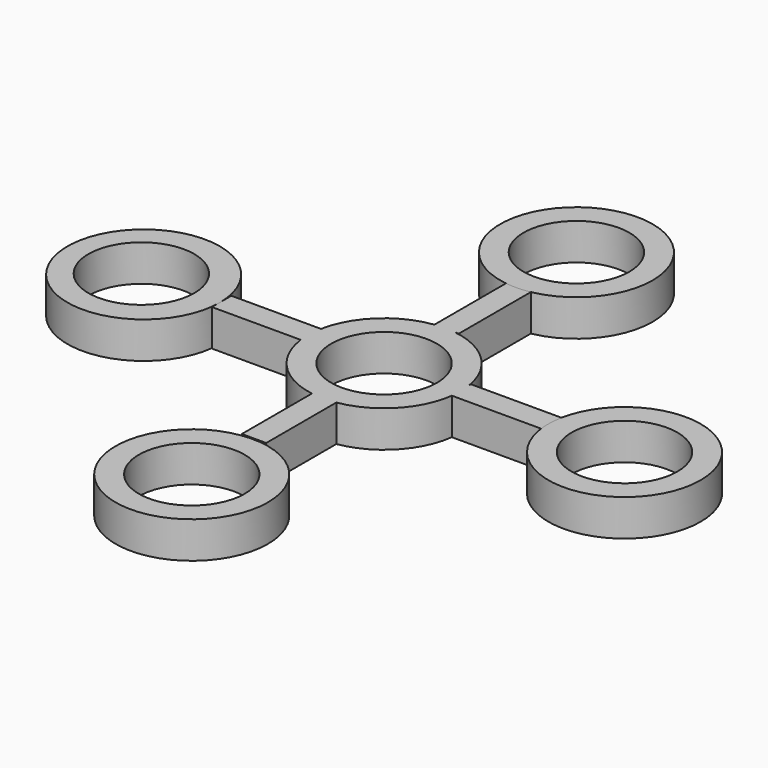
from build123d import *

# Parameters (mm, degrees)
F0_R      = 15.875
F1_DEPTH  = 7.62
F2_R      = 11.0236
F3_DEPTH  = 25.4
F4_W      = 19.047736
F4_H      = 5.08
F5_DEPTH  = 7.62
F6_W      = 5.08
F6_H      = 19.05
F7_DEPTH  = 7.62
F8_W      = 5.08
F8_H      = 19.05
F9_DEPTH  = 7.62
F10_W     = 19.05
F10_H     = 5.08
F11_DEPTH = 7.62
F12_R     = 15.875
F13_DEPTH = 7.62
F14_R     = 11.0236
F15_DEPTH = 25.4
F16_R     = 11.0236
F17_DEPTH = 25.4
F18_R     = 11.0236
F19_DEPTH = 25.4
F20_R     = 11.0236
F21_DEPTH = 25.4


with BuildPart() as f1:
    # F0 (on Top) → F1 (new body)
    with BuildSketch(Plane.XY):
        Circle(F0_R)
    extrude(amount=F1_DEPTH)

    # F2 (on face) → F3 (cut)
    with BuildSketch(Plane.XY.offset(7.62)):
        Circle(F2_R)
    extrude(amount=-F3_DEPTH, mode=Mode.SUBTRACT)

    # F4 (on Top) → F5 (join)
    with BuildSketch(Plane.XY):
        with Locations((25.180948, 0.502541)):
            Rectangle(F4_W, F4_H)
    extrude(amount=F5_DEPTH)

    # F6 (on Top) → F7 (join)
    with BuildSketch(Plane.XY):
        with Locations((0.036802, -24.399011)):
            Rectangle(F6_W, F6_H)
    extrude(amount=F7_DEPTH)

    # F8 (on Top) → F9 (join)
    with BuildSketch(Plane.XY):
        with Locations((0.437803, 25.260196)):
            Rectangle(F8_W, F8_H)
    extrude(amount=F9_DEPTH)

    # F10 (on Top) → F11 (join)
    with BuildSketch(Plane.XY):
        with Locations((-24.722495, 0.499337)):
            Rectangle(F10_W, F10_H)
    extrude(amount=F11_DEPTH)


with BuildPart() as f13:
    # F12 (on Top) → F13 (new body)
    with BuildSketch(Plane.XY):
        with Locations((0, 50.097458)):
            Circle(F12_R)
        with Locations((-50.097461, 0)):
            Circle(F12_R)
        with Locations((50.097461, 0)):
            Circle(F12_R)
        with Locations((0, -50.097461)):
            Circle(F12_R)
    extrude(amount=F13_DEPTH)

    # F14 (on face) → F15 (cut)
    with BuildSketch(Plane.XY.offset(7.62)):
        with Locations((-50.575616, 0)):
            Circle(F14_R)
    extrude(amount=-F15_DEPTH, mode=Mode.SUBTRACT)

    # F16 (on face) → F17 (cut)
    with BuildSketch(Plane.XY.offset(7.62)):
        with Locations((0, 50.097458)):
            Circle(F16_R)
    extrude(amount=-F17_DEPTH, mode=Mode.SUBTRACT)

    # F18 (on face) → F19 (cut)
    with BuildSketch(Plane.XY.offset(7.62)):
        with Locations((50.097461, 0)):
            Circle(F18_R)
    extrude(amount=-F19_DEPTH, mode=Mode.SUBTRACT)

    # F20 (on face) → F21 (cut)
    with BuildSketch(Plane.XY.offset(7.62)):
        with Locations((0, -50.097461)):
            Circle(F20_R)
    extrude(amount=-F21_DEPTH, mode=Mode.SUBTRACT)


solid = Compound([f1.part, f13.part])
